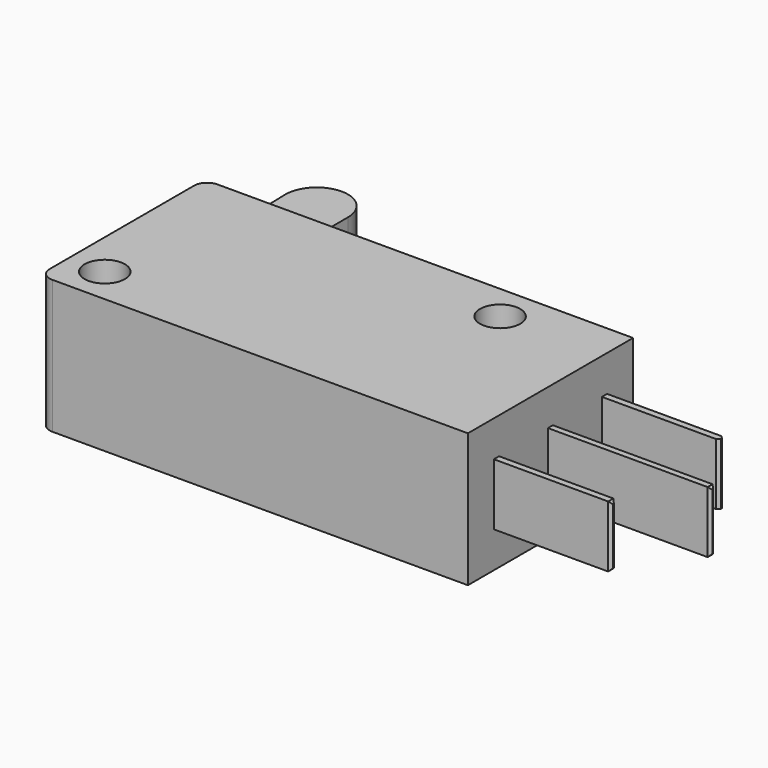
from build123d import *

# Parameters (mm, degrees)
F0_R     = 1.55
F1_DEPTH = 10.3
F3_DEPTH = 2.5
F4_DEPTH = 2.5
F5_W     = 0.5
F5_H     = 4.75
F6_DEPTH = 9
F5_W_2   = 0.474308
F7_DEPTH = 12.5
F8_SIZE  = 0.2
F9_R     = 1


with BuildPart() as f1:
    # F0 (on Top) → F1 (new body)
    with BuildSketch(Plane.XY):
        Polygon((-23.728283, -19.735446), (-25.866954, -19.735446), (-25.866954, -35.635446), (7.133046, -35.635446), (7.133046, -19.735446), (-19.066954, -19.735446), align=None)
        with Locations((-23.066954, -32.835446)):
            Circle(F0_R, mode=Mode.SUBTRACT)
        with Locations((-0.866954, -22.535446)):
            Circle(F0_R, mode=Mode.SUBTRACT)
        with BuildLine():
            Line((-23.866123, -14.498595), (-23.728283, -19.735446))
            Line((-23.728283, -19.735446), (-19.066954, -19.735446))
            Line((-19.066954, -19.735446), (-19.066954, -14.435446))
            ThreePointArc((-19.066954, -14.435446), (-21.435376, -16.835239), (-23.866123, -14.498595))
        make_face()
        with BuildLine():
            ThreePointArc((-19.066954, -14.435446), (-21.498531, -12.035654), (-23.866123, -14.498595))
            ThreePointArc((-23.866123, -14.498595), (-21.435376, -16.835239), (-19.066954, -14.435446))
        make_face()
    extrude(amount=F1_DEPTH)

    # F2 (on face) → F3 (cut)
    with BuildSketch(Plane.XY.offset(10.3)):
        with BuildLine():
            Line((-23.866123, -14.498595), (-23.728283, -19.735446))
            Line((-23.728283, -19.735446), (-19.066954, -19.735446))
            Line((-19.066954, -19.735446), (-19.066954, -14.435446))
            ThreePointArc((-19.066954, -14.435446), (-21.498531, -12.035654), (-23.866123, -14.498595))
        make_face()
    extrude(amount=-F3_DEPTH, mode=Mode.SUBTRACT)

    # F0 (on Top) → F4 (cut)
    with BuildSketch(Plane.XY):
        with BuildLine():
            Line((-23.866123, -14.498595), (-23.728283, -19.735446))
            Line((-23.728283, -19.735446), (-19.066954, -19.735446))
            Line((-19.066954, -19.735446), (-19.066954, -14.435446))
            ThreePointArc((-19.066954, -14.435446), (-21.435376, -16.835239), (-23.866123, -14.498595))
        make_face()
        with BuildLine():
            ThreePointArc((-19.066954, -14.435446), (-21.498531, -12.035654), (-23.866123, -14.498595))
            ThreePointArc((-23.866123, -14.498595), (-21.435376, -16.835239), (-19.066954, -14.435446))
        make_face()
    extrude(amount=F4_DEPTH, mode=Mode.SUBTRACT)

    # F5 (on face) → F6 (join)
    with BuildSketch(Plane.YZ.offset(7.133046)):
        with Locations((-22.485446, 5.15)):
            Rectangle(F5_W, F5_H)
        with Locations((-32.885446, 5.15)):
            Rectangle(F5_W, F5_H)
    extrude(amount=F6_DEPTH)

    # F5 (on face) → F7 (join)
    with BuildSketch(Plane.YZ.offset(7.133046)):
        with Locations((-27.698292, 5.15)):
            Rectangle(F5_W_2, F5_H)
    extrude(amount=F7_DEPTH)

    # F8
    f8_edges = [f1.edges().sort_by_distance(p)[0] for p in [
        (16.133046, -22.235446, 5.15),
        (16.133046, -22.735446, 5.15),
        (19.633046, -27.461138, 5.15),
        (19.633046, -27.698292, 7.525),
        (19.633046, -27.935446, 5.15),
        (19.633046, -27.698292, 2.775),
        (16.133046, -32.635446, 5.15),
        (16.133046, -32.885446, 7.525),
        (16.133046, -33.135446, 5.15),
        (16.133046, -32.885446, 2.775),
    ]]
    chamfer(f8_edges, length=F8_SIZE)

    # F9
    f9_edges = [f1.edges().sort_by_distance(p)[0] for p in [
        (-25.866954, -19.735446, 5.15),
        (-25.866954, -35.635446, 5.15),
    ]]
    fillet(f9_edges, radius=F9_R)


solid = f1.part
